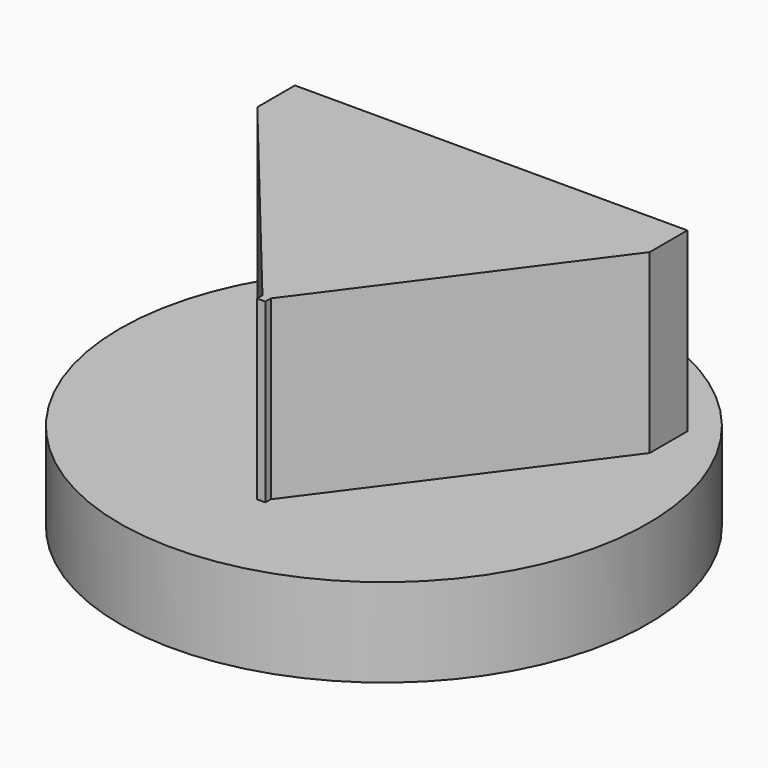
from build123d import *

# Parameters (mm, degrees)
F1_DEPTH   = 25.4
F2_W       = 112.7116382122
F2_H       = 13.5166756809
F2_W_2     = 2.3981197737
F2_H_2     = 1.962095499
F3_DEPTH   = 25.4
F3_FACE_W  = 112.7116382122
F3_FACE_H  = 25.4
F3_FACE1_W = 2.3981197737
F3_FACE1_H = 25.4
F5_DEPTH   = 25.4


with BuildPart() as f1:
    # F0 (on Top) → F1 (new body)
    with BuildSketch(Plane.XY):
        with BuildLine():
            Line((9.2957576653, 0), (75.818580382, 0))
            ThreePointArc((75.818580382, 0), (0, 75.818580382), (-75.818580382, 0))
            Line((-75.818580382, 0), (-9.2957576653, 0))
            ThreePointArc((-9.2957576653, 0), (0, 9.2957576653), (9.2957576653, 0))
        make_face()
        with BuildLine():
            ThreePointArc((-75.818580382, 0), (0, -75.818580382), (75.818580382, 0))
            Line((75.818580382, 0), (9.2957576653, 0))
            ThreePointArc((9.2957576653, 0), (0, -9.2957576653), (-9.2957576653, 0))
            Line((-9.2957576653, 0), (-75.818580382, 0))
        make_face()
    extrude(amount=F1_DEPTH)

    # F2 (on face) → F3 (join)
    with BuildSketch(Plane.XY.offset(25.4)):
        with Locations((-1.6350820661, 33.7916892022)):
            Rectangle(F2_W, F2_H)
        with Locations((1.1990598869, -44.5832274854)):
            Rectangle(F2_W_2, F2_H_2)
    extrude(amount=F3_DEPTH)

    # F3_face (on face) → F4 section 0
    with BuildSketch(Plane(origin=(-1.6350820661, 27.0333513618, 38.1), x_dir=(1, 0, 0), z_dir=(0, -1, 0))):
        Rectangle(F3_FACE_W, F3_FACE_H)
    # F3_face1 (on face) → F4 section 1
    with BuildSketch(Plane(origin=(1.1990598869, -43.6021797359, 38.1), x_dir=(-1, 0, 0), z_dir=(0, 1, 0))):
        Rectangle(F3_FACE1_W, F3_FACE1_H)
    loft()

    # F5 (add): a face of the model
    f5_faces = [f1.faces().sort_by_distance(p)[0] for p in [
        (-0.9317783137, 11.344748031, 50.8),
    ]]
    extrude(f5_faces, amount=F5_DEPTH)


solid = f1.part
